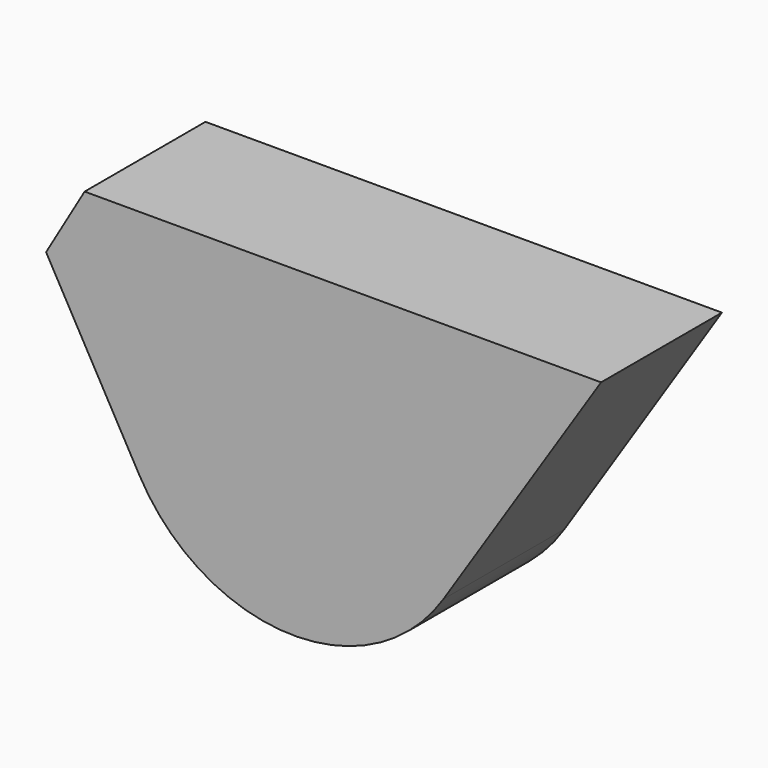
from build123d import *

# Parameters (mm, degrees)
F1_DEPTH = 25.4
F2_SIZE  = 12.7
F3_R     = 29.887927


with BuildPart() as f1:
    # F0 (on Front) → F1 (new body)
    with BuildSketch(Plane.XZ):
        Polygon((53.427204, 36.90131), (-46.108402, 36.90131), (0, -45.14505), align=None)
    extrude(amount=F1_DEPTH)

    # F2
    f2_edges = [f1.edges().sort_by_distance(p)[0] for p in [
        (-46.108402, -12.7, 36.90131),
    ]]
    chamfer(f2_edges, length=F2_SIZE)

    # F3
    f3_edges = [f1.edges().sort_by_distance(p)[0] for p in [
        (0, -12.7, -45.14505),
    ]]
    fillet(f3_edges, radius=F3_R)


solid = f1.part
